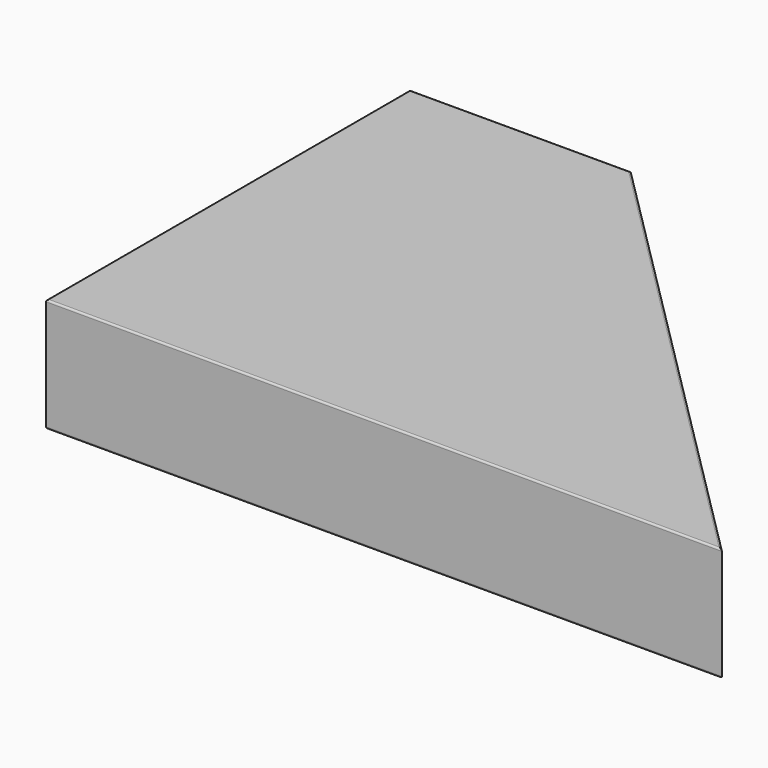
from build123d import *

# Parameters (mm, degrees)
F1_DEPTH = 12.5
F2_R     = 0.2


with BuildPart() as f1:
    # F0 (on Top) → F1 (new body)
    with BuildSketch(Plane.XY):
        Polygon((0, 50), (0, 0), (74.3, 0), (24.3, 50), align=None)
    extrude(amount=-F1_DEPTH)

    # F2
    f2_edges = [f1.edges().sort_by_distance(p)[0] for p in [
        (12.15, 50, 0),
        (0, 25, 0),
        (37.15, 0, 0),
        (49.3, 25, 0),
        (12.15, 50, -12.5),
        (0, 25, -12.5),
        (37.15, 0, -12.5),
        (49.3, 25, -12.5),
    ]]
    fillet(f2_edges, radius=F2_R)


solid = f1.part
